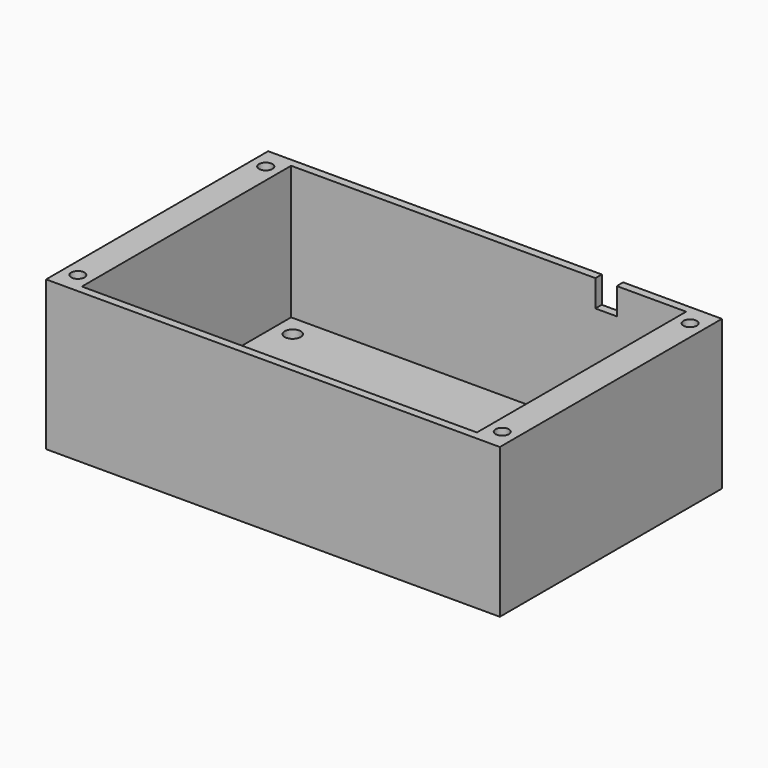
from build123d import *

# Parameters (mm, degrees)
F0_W     = 85
F0_H     = 52
F0_R     = 1.5
F1_DEPTH = 3
F2_W     = 85
F2_H     = 52
F2_W_2   = 74
F2_H_2   = 49
F3_DEPTH = 25
F4_R     = 1.25
F5_DEPTH = 10
F6_W     = 4
F6_H     = 1.5
F7_DEPTH = 5


with BuildPart() as f1:
    # F0 (on Top) → F1 (new body)
    with BuildSketch(Plane.XY):
        Rectangle(F0_W, F0_H)
        with Locations((-33.5, -20.5)):
            Circle(F0_R, mode=Mode.SUBTRACT)
        with Locations((33.5, -20.5)):
            Circle(F0_R, mode=Mode.SUBTRACT)
        with Locations((-33.5, 20.5)):
            Circle(F0_R, mode=Mode.SUBTRACT)
        with Locations((33.5, 20.5)):
            Circle(F0_R, mode=Mode.SUBTRACT)
    extrude(amount=F1_DEPTH)

    # F2 (on face) → F3 (join)
    with BuildSketch(Plane.XY.offset(3)):
        Rectangle(F2_W, F2_H)
        Rectangle(F2_W_2, F2_H_2, mode=Mode.SUBTRACT)
    extrude(amount=F3_DEPTH)

    # F4 (on face) → F5 (cut)
    with BuildSketch(Plane.XY.offset(28)):
        with Locations((-39.75, 22)):
            Circle(F4_R)
        with Locations((-39.75, -22)):
            Circle(F4_R)
        with Locations((39.75, 22)):
            Circle(F4_R)
        with Locations((39.75, -22)):
            Circle(F4_R)
    extrude(amount=-F5_DEPTH, mode=Mode.SUBTRACT)

    # F6 (on face) → F7 (cut)
    with BuildSketch(Plane.XY.offset(28)):
        with Locations((22, 25.25)):
            Rectangle(F6_W, F6_H)
    extrude(amount=-F7_DEPTH, mode=Mode.SUBTRACT)


solid = f1.part
